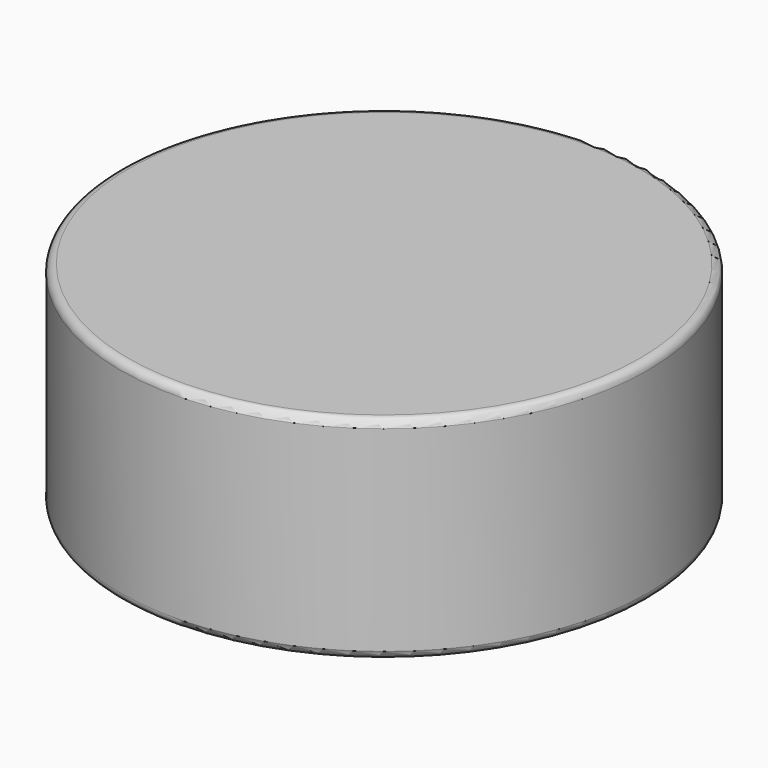
from build123d import *

# Parameters (mm, degrees)
SKETCH_R    = 33
PAD_DEPTH   = 26.5
FILLET_R    = 1
FILLET001_R = 1


with BuildPart() as part:
    # Sketch → Pad (new body)
    with BuildSketch(Plane.XY):
        Circle(SKETCH_R)
    extrude(amount=PAD_DEPTH)

    # Fillet
    fillet_edges = [part.edges().sort_by_distance(p)[0] for p in [
        (-33, 0, 0),
    ]]
    fillet(fillet_edges, radius=FILLET_R)

    # Fillet001
    fillet001_edges = [part.edges().sort_by_distance(p)[0] for p in [
        (-33, 0, 26.5),
    ]]
    fillet(fillet001_edges, radius=FILLET001_R)


solid = part.part
